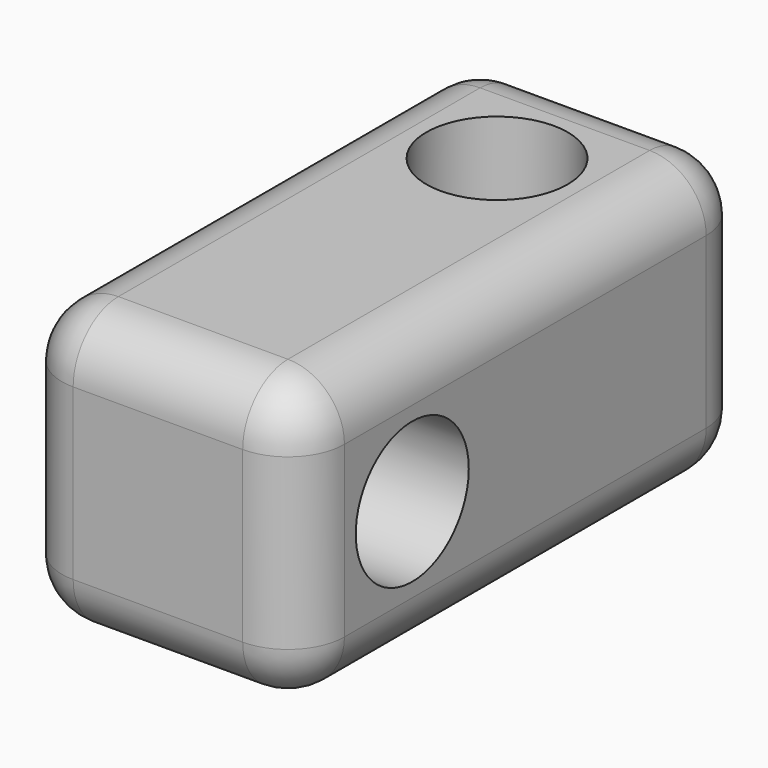
from build123d import *

# Parameters (mm, degrees)
F0_W     = 25.4
F0_H     = 50.8
F0_R     = 6.35
F1_DEPTH = 12.7
F3_D     = 12.7
F4_R     = 5.08


with BuildPart() as f1:
    # F0 (on Top) → F1 (new body, symmetric)
    with BuildSketch(Plane.XY):
        Rectangle(F0_W, F0_H)
        with Locations((0, 12.7)):
            Circle(F0_R, mode=Mode.SUBTRACT)
    extrude(amount=F1_DEPTH, both=True)

    # F3 (through all)
    with Locations(Plane(origin=(-12.7, 0, 0), x_dir=(0, -1, 0), z_dir=(-1, 0, 0))):
        with Locations((12.7, 0)):
            Hole(F3_D / 2)

    # F4
    f4_edges = [f1.edges().sort_by_distance(p)[0] for p in [
        (0, -25.4, -12.7),
        (12.7, -25.4, 0),
        (0, -25.4, 12.7),
        (-12.7, -25.4, 0),
        (12.7, 25.4, 0),
        (0, 25.4, -12.7),
        (-12.7, 25.4, 0),
        (0, 25.4, 12.7),
        (-12.7, 0, -12.7),
        (12.7, 0, -12.7),
        (12.7, 0, 12.7),
        (-12.7, 0, 12.7),
    ]]
    fillet(f4_edges, radius=F4_R)


solid = f1.part
